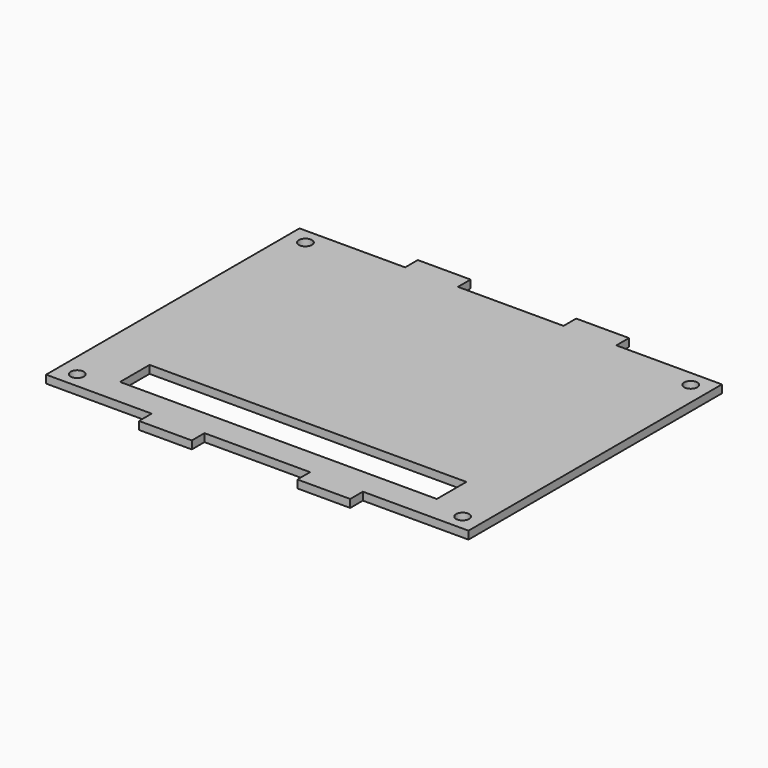
from build123d import *

# Parameters (mm, degrees)
F0_R     = 2.5
F1_DEPTH = 1.5


with BuildPart() as f1:
    # F0 (on Top) → F1 (new body, symmetric)
    with BuildSketch(Plane.XY):
        Polygon((80, -60), (80, 60), (40, 60), (40, 66), (20, 66), (20, 60), (-20, 60), (-20, 66), (-40, 66), (-40, 60), (-80, 60), (-80, -60), (-40, -60), (-40, -66), (-20, -66), (-20, -60), (20, -60), (20, -66), (40, -66), (40, -60), align=None)
        with Locations((-73, -54)):
            Circle(F0_R, mode=Mode.SUBTRACT)
        Polygon((60, -50), (0, -50), (-60, -50), (-60, -36), (60, -36), align=None, mode=Mode.SUBTRACT)
        with Locations((73, -54)):
            Circle(F0_R, mode=Mode.SUBTRACT)
        with Locations((-73, 54)):
            Circle(F0_R, mode=Mode.SUBTRACT)
        with Locations((73, 54)):
            Circle(F0_R, mode=Mode.SUBTRACT)
    extrude(amount=F1_DEPTH, both=True)


solid = f1.part
